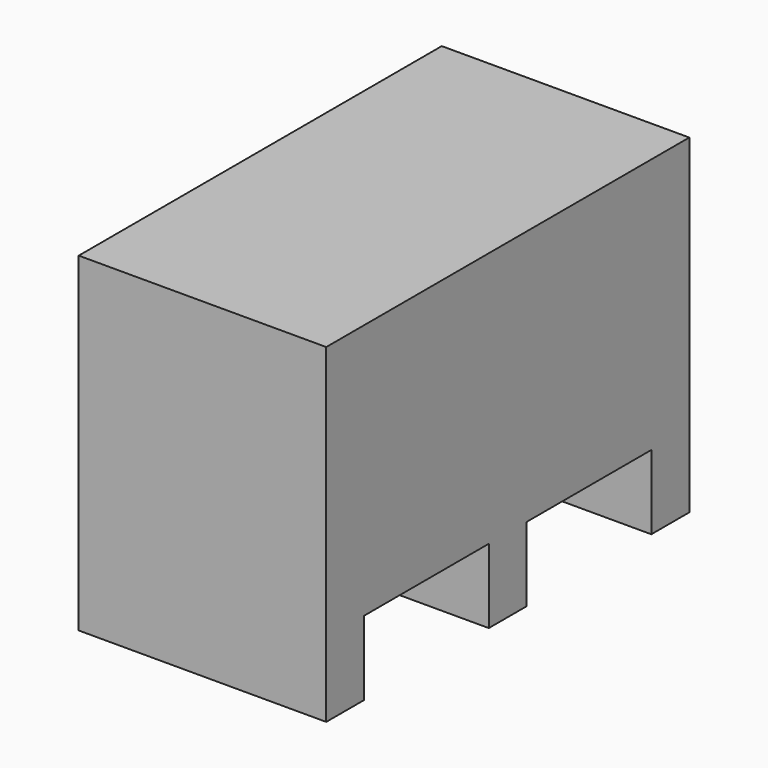
from build123d import *

# Parameters (mm, degrees)
BOX003_W     = 6
BOX003_H     = 1.15
BOX003_DEPTH = 8
BOX004_W     = 6
BOX004_H     = 1.15
BOX004_DEPTH = 8
BOX002_W     = 6
BOX002_H     = 11
BOX002_DEPTH = 6.2
BOX005_W     = 6
BOX005_H     = 1.15
BOX005_DEPTH = 8


with BuildPart() as cube003:
    # Box003 → Box003 (new body)
    with BuildSketch(Plane(origin=(320.5, -13, 0.2), x_dir=(1, 0, 0), z_dir=(0, 0, 1))):
        with Locations((3, 0.575)):
            Rectangle(BOX003_W, BOX003_H)
    extrude(amount=BOX003_DEPTH)


with BuildPart() as cube004:
    # Box004 → Box004 (new body)
    with BuildSketch(Plane(origin=(320.5, -3.15, 0.2), x_dir=(1, 0, 0), z_dir=(0, 0, 1))):
        with Locations((3, 0.575)):
            Rectangle(BOX004_W, BOX004_H)
    extrude(amount=BOX004_DEPTH)


with BuildPart() as cube002:
    # Box002 → Box002 (new body)
    with BuildSketch(Plane(origin=(320.5, -13, 2), x_dir=(1, 0, 0), z_dir=(0, 0, 1))):
        with Locations((3, 5.5)):
            Rectangle(BOX002_W, BOX002_H)
    extrude(amount=BOX002_DEPTH)


with BuildPart() as fusion002005003:
    # Box005 → Box005 (new body)
    with BuildSketch(Plane(origin=(320.5, -8.075, 0.2), x_dir=(1, 0, 0), z_dir=(0, 0, 1))):
        with Locations((3, 0.575)):
            Rectangle(BOX005_W, BOX005_H)
    extrude(amount=BOX005_DEPTH)

    # Fusion002005003: union Cube003, Cube004, Cube002
    add(cube003.part)
    add(cube004.part)
    add(cube002.part)


solid = fusion002005003.part
